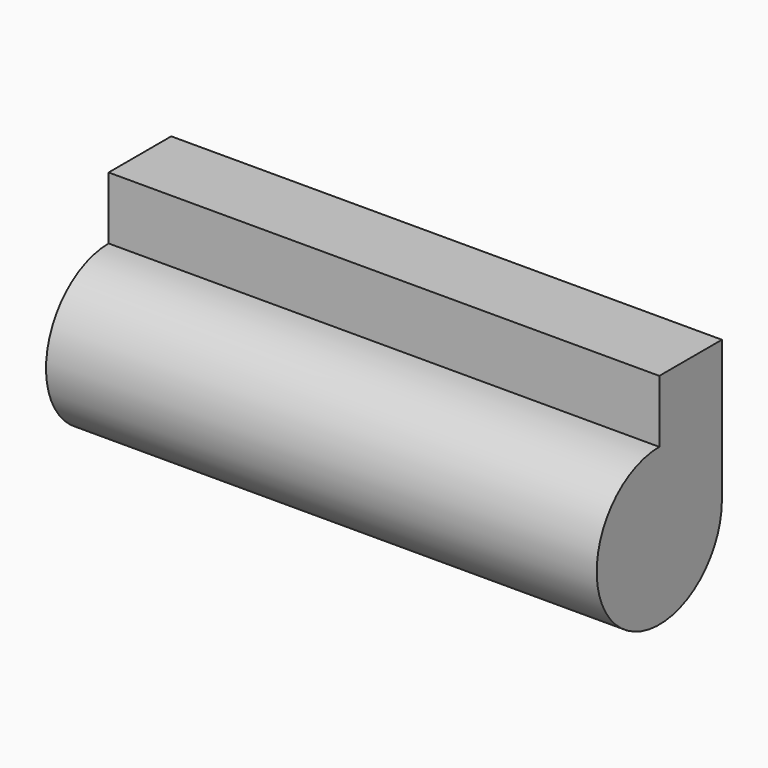
from build123d import *

# Parameters (mm, degrees)
F0_W      = 140.737012
F0_H      = 35.975718
F1_DEPTH  = 20
F1_FACE_W = 140.737012
F1_FACE_H = 20


with BuildPart() as f1:
    # F0 (on Front) → F1 (new body)
    with BuildSketch(Plane.XZ):
        Rectangle(F0_W, F0_H)
    extrude(amount=F1_DEPTH)

    # F1_face (on face) → F2 (revolve)
    with BuildSketch(Plane(origin=(0, -10, -17.987859), x_dir=(1, 0, 0), z_dir=(0, 0, -1))):
        Rectangle(F1_FACE_W, F1_FACE_H)
    revolve(axis=Axis((0, -20, -17.987859), (1, 0, 0)))


solid = f1.part
